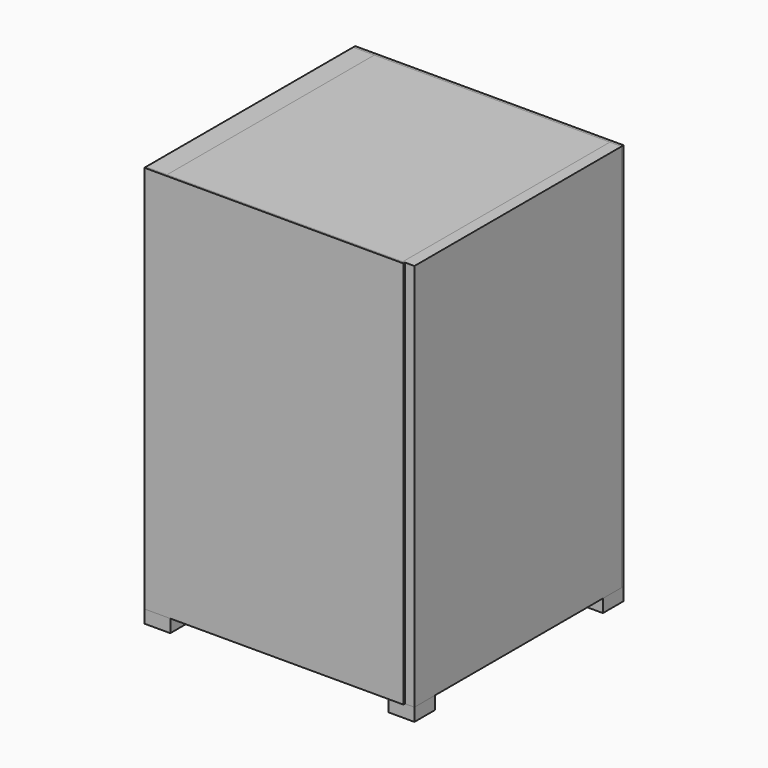
from build123d import *

# Parameters (mm, degrees)
F0_W      = 200
F0_H      = 300
F1_DEPTH  = 1.5
F2_W      = 16.3604896516
F2_H      = 300
F3_DEPTH  = 200
F5_DEPTH  = 12
F7_DEPTH  = 182
F8_W      = 20.3324407339
F8_H      = 15.5486247241
F9_DEPTH  = 5
F10_W     = 200
F10_H     = 9
F11_DEPTH = 182
F12_W     = 200
F12_H     = 9
F13_DEPTH = 182
F14_W     = 200
F14_H     = 300
F15_DEPTH = 9
F16_W     = 207.3604896516
F16_H     = 300
F17_DEPTH = 2
F18_R     = 35.4724219955
F19_DEPTH = 3
F20_W     = 20
F20_H     = 20
F21_DEPTH = 10
F22_W     = 20
F22_H     = 20
F23_DEPTH = 10
F24_W     = 20
F24_H     = 20
F25_DEPTH = 10
F26_W     = 20
F26_H     = 20
F27_DEPTH = 10


with BuildPart() as f1:
    # F0 (on Front) → F1 (new body)
    with BuildSketch(Plane.XZ):
        with Locations((100, 150)):
            Rectangle(F0_W, F0_H)
    extrude(amount=F1_DEPTH)


with BuildPart() as f3:
    # F2 (on face) → F3 (new body)
    with BuildSketch(Plane(origin=(0, 0, 0), x_dir=(-1, 0, 0), z_dir=(0, 1, 0))):
        with Locations((-8.1802448258, 150)):
            Rectangle(F2_W, F2_H)
    extrude(amount=F3_DEPTH)


with BuildPart() as f5:
    # F4 (on face) → F5 (new body)
    with BuildSketch(Plane.YZ.offset(16.3604896516)):
        Polygon((20.75971663, 115.9783601761), (0, 132.6744705439), (0, 99.2822498083), align=None)
    extrude(amount=F5_DEPTH)


with BuildPart() as f7:
    # F6 (on face) → F7 (new body)
    with BuildSketch(Plane.YZ.offset(16.3604896516)):
        Polygon((0, 132.5696110725), (20.75971663, 115.9783601761), (22.6025279975, 118.2841683415), (1.8428113675, 134.875419238), align=None)
    extrude(amount=F7_DEPTH)


with BuildPart() as f9:
    # F8 (on face) → F9 (new body)
    with BuildSketch(Plane(origin=(0, 66.4967558928, 83.2037209107), x_dir=(1, 0, 0), z_dir=(0, 0.6243158731, 0.7811719981))):
        with Locations((102.0758375525, -63.964534238)):
            Rectangle(F8_W, F8_H)
    extrude(amount=F9_DEPTH)


with BuildPart() as f11:
    # F10 (on face) → F11 (new body)
    with BuildSketch(Plane.YZ.offset(16.3604896516)):
        with Locations((100, 295.5)):
            Rectangle(F10_W, F10_H)
    extrude(amount=F11_DEPTH)


with BuildPart() as f13:
    # F12 (on face) → F13 (new body)
    with BuildSketch(Plane.YZ.offset(16.3604896516)):
        with Locations((100, 4.5)):
            Rectangle(F12_W, F12_H)
    extrude(amount=F13_DEPTH)


with BuildPart() as f15:
    # F14 (on face) → F15 (new body)
    with BuildSketch(Plane.YZ.offset(198.3604896516)):
        with Locations((100, 150)):
            Rectangle(F14_W, F14_H)
    extrude(amount=F15_DEPTH)


with BuildPart() as f17:
    # F16 (on face) → F17 (new body)
    with BuildSketch(Plane(origin=(0, 200, 0), x_dir=(-1, 0, 0), z_dir=(0, 1, 0))):
        with Locations((-103.6802448258, 150)):
            Rectangle(F16_W, F16_H)
    extrude(amount=F17_DEPTH)

    # F18 (on face) → F19 (cut)
    with BuildSketch(Plane(origin=(0, 202, 0), x_dir=(-1, 0, 0), z_dir=(0, 1, 0))):
        with Locations((-96.3260084391, 59.3970827758)):
            Circle(F18_R)
    extrude(amount=-F19_DEPTH, mode=Mode.SUBTRACT)


with BuildPart() as f21:
    # F20 (on face) → F21 (new body)
    with BuildSketch(Plane(origin=(0, 0, 0), x_dir=(1, 0, 0), z_dir=(0, 0, -1))):
        with Locations((10, -8.5)):
            Rectangle(F20_W, F20_H)
    extrude(amount=F21_DEPTH)


with BuildPart() as f23:
    # F22 (on face) → F23 (new body)
    with BuildSketch(Plane(origin=(0, 0, 0), x_dir=(1, 0, 0), z_dir=(0, 0, -1))):
        with Locations((197.3604896516, -10)):
            Rectangle(F22_W, F22_H)
    extrude(amount=F23_DEPTH)


with BuildPart() as f25:
    # F24 (on face) → F25 (new body)
    with BuildSketch(Plane(origin=(0, 0, 0), x_dir=(1, 0, 0), z_dir=(0, 0, -1))):
        with Locations((10, -192)):
            Rectangle(F24_W, F24_H)
    extrude(amount=F25_DEPTH)


with BuildPart() as f27:
    # F26 (on face) → F27 (new body)
    with BuildSketch(Plane(origin=(0, 0, 0), x_dir=(1, 0, 0), z_dir=(0, 0, -1))):
        with Locations((197.3604896516, -192)):
            Rectangle(F26_W, F26_H)
    extrude(amount=F27_DEPTH)


solid = Compound([f1.part, f3.part, f5.part, f7.part, f9.part, f11.part, f13.part, f15.part, f17.part, f21.part, f23.part, f25.part, f27.part])
